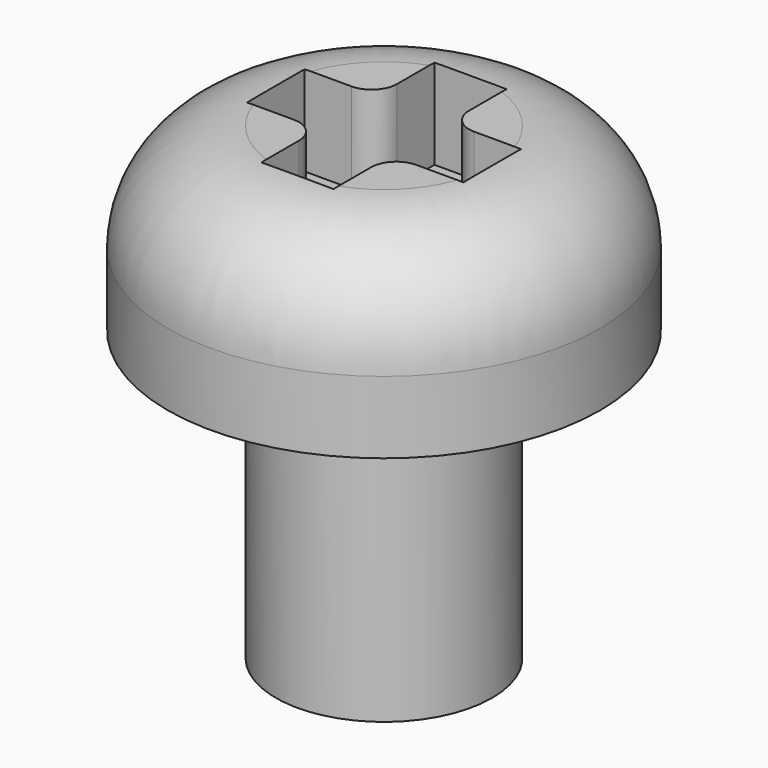
from build123d import *

# Parameters (mm, degrees)
BOX_W             = 1
BOX_H             = 3
BOX_DEPTH         = 1.5
BOX001_W          = 1
BOX001_H          = 3
BOX001_DEPTH      = 1.5
CYLINDER_R        = 3
CYLINDER_DEPTH    = 2.5
FILLET_R          = 1.5
FILLET001_R       = 0.35
CYLINDER001_R     = 1.5
CYLINDER001_DEPTH = 4


with BuildPart() as cube:
    # Box → Box (new body)
    with BuildSketch(Plane(origin=(-0.5, -1.5, 1.25), x_dir=(1, 0, 0), z_dir=(0, 0, 1))):
        with Locations((0.5, 1.5)):
            Rectangle(BOX_W, BOX_H)
    extrude(amount=BOX_DEPTH)


with BuildPart() as cube001:
    # Box001 → Box001 (new body)
    with BuildSketch(Plane(origin=(1.5, -0.5, 1.25), x_dir=(0, 1, 0), z_dir=(0, 0, 1))):
        with Locations((0.5, 1.5)):
            Rectangle(BOX001_W, BOX001_H)
    extrude(amount=BOX001_DEPTH)


with BuildPart() as fillet001:
    # Cylinder → Cylinder (new body)
    with BuildSketch(Plane.XY):
        Circle(CYLINDER_R)
    extrude(amount=CYLINDER_DEPTH)

    # Fillet
    fillet_edges = [fillet001.edges().sort_by_distance(p)[0] for p in [
        (-3, 0, 2.5),
    ]]
    fillet(fillet_edges, radius=FILLET_R)

    # Cut: cut Cube001
    add(cube001.part, mode=Mode.SUBTRACT)

    # Cut001: cut Cube
    add(cube.part, mode=Mode.SUBTRACT)

    # Fillet001
    fillet001_edges = [fillet001.edges().sort_by_distance(p)[0] for p in [
        (0.5, 0.5, 1.875),
        (-0.5, 0.5, 1.875),
        (-0.5, -0.5, 1.875),
        (0.5, -0.5, 1.875),
    ]]
    fillet(fillet001_edges, radius=FILLET001_R)


with BuildPart() as cylinder001:
    # Cylinder001 → Cylinder001 (new body)
    with BuildSketch(Plane.XY.offset(-4)):
        Circle(CYLINDER001_R)
    extrude(amount=CYLINDER001_DEPTH)


solid = Compound([fillet001.part, cylinder001.part])
